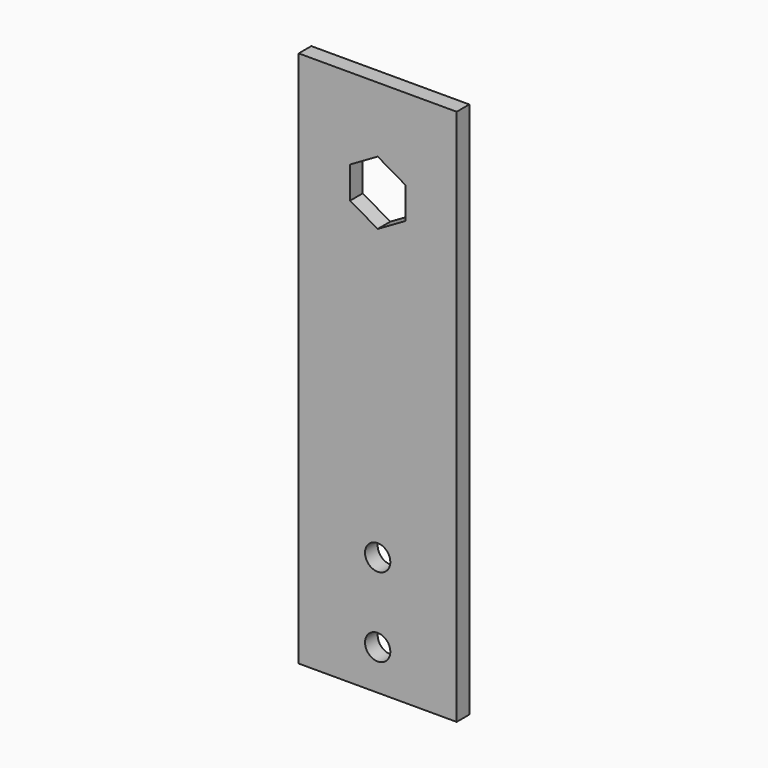
from build123d import *

# Parameters (mm, degrees)
F0_W     = 50
F0_H     = 170
F0_R     = 4
F1_DEPTH = 5


with BuildPart() as f1:
    # F0 (on Front) → F1 (new body)
    with BuildSketch(Plane.XZ):
        with Locations((25, 85)):
            Rectangle(F0_W, F0_H)
        with Locations((25, 12.7)):
            Circle(F0_R, mode=Mode.SUBTRACT)
        with Locations((25, 37.7)):
            Circle(F0_R, mode=Mode.SUBTRACT)
        Polygon((25, 149.381979), (33.73125, 144.34099), (33.73125, 134.25901), (25, 129.218021), (16.26875, 134.25901), (16.26875, 144.34099), align=None, mode=Mode.SUBTRACT)
    extrude(amount=F1_DEPTH)


solid = f1.part
